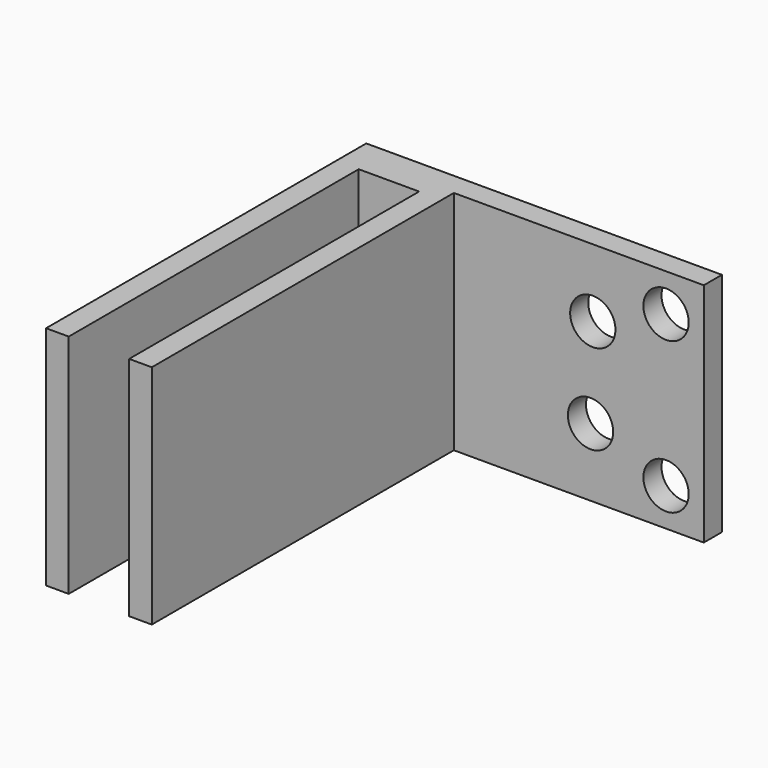
from build123d import *

# Parameters (mm, degrees)
PAD_DEPTH    = 30
SKETCH001_R  = 3
POCKET_DEPTH = 5


with BuildPart() as part:
    # Sketch → Pad (new body)
    with BuildSketch(Plane.XY):
        Polygon((0, 0), (0, 53), (47.1, 53), (47.1, 50), (14, 50), (14, 0), (11, 0), (11, 48), (3, 48), (3, 0), align=None)
    extrude(amount=PAD_DEPTH)

    # Sketch001 (on Face2 of Pad) → Pocket (cut)
    with BuildSketch(Plane(origin=(0, 53, 0), x_dir=(-1, 0, 0), z_dir=(0, 1, 0))):
        with Locations((-32.1, 9)):
            Circle(SKETCH001_R)
        with Locations((-42.1, 25)):
            Circle(SKETCH001_R)
        with Locations((-42.1, 5)):
            Circle(SKETCH001_R)
        with Locations((-32.4, 21)):
            Circle(SKETCH001_R)
    extrude(amount=-POCKET_DEPTH, mode=Mode.SUBTRACT)


solid = part.part
